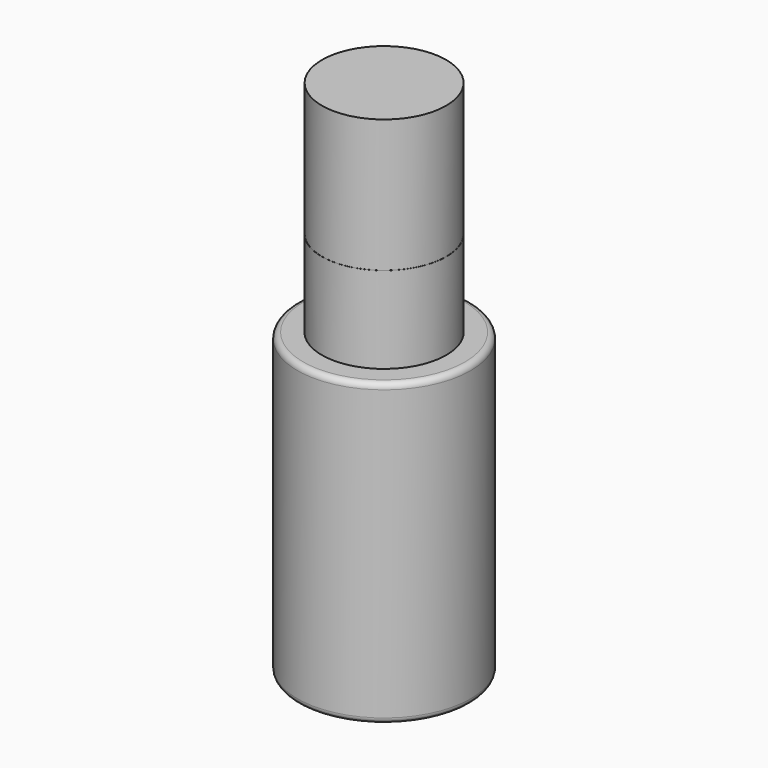
from build123d import *

# Parameters (mm, degrees)
F2_R = 1
F3_R = 1


with BuildPart() as f1:
    # F0 (on Front) → F1 (revolve)
    with BuildSketch(Plane.XZ):
        Polygon((10.75, 49.795319), (0, 49.795319), (0, 11.795319), (0, -40.204681), (15, -40.204681), (15, 11.795319), (10.775, 11.795319), (10.775, 26.795319), (10.75, 26.795319), align=None)
    revolve(axis=Axis((0, 0, 30.795319), (0, 0, 1)))

    # F2
    f2_edges = [f1.edges().sort_by_distance(p)[0] for p in [
        (-15, 0, 11.795319),
    ]]
    fillet(f2_edges, radius=F2_R)

    # F3
    f3_edges = [f1.edges().sort_by_distance(p)[0] for p in [
        (-15, 0, -40.204681),
    ]]
    fillet(f3_edges, radius=F3_R)


solid = f1.part
